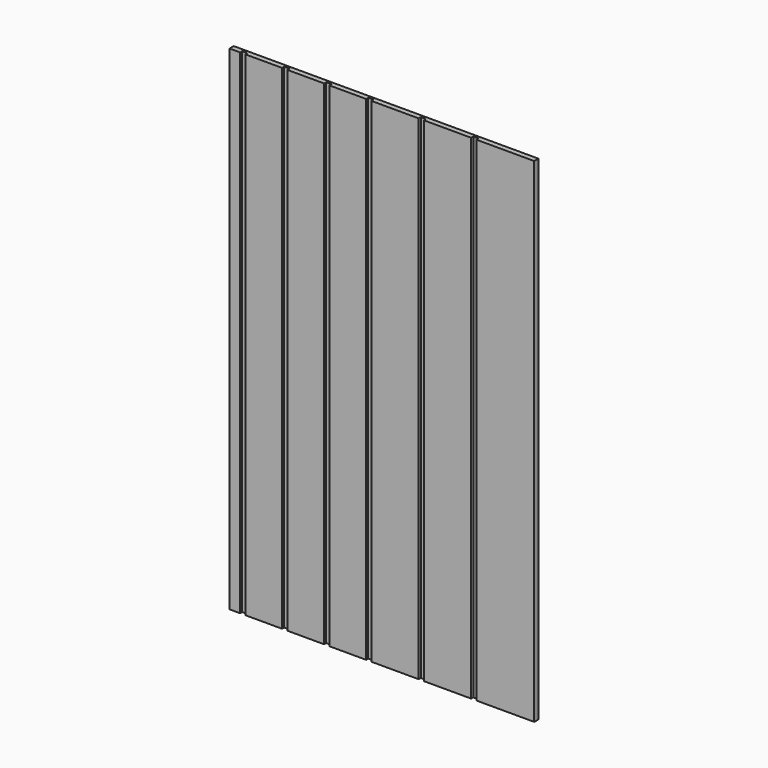
from build123d import *

# Parameters (mm, degrees)
F0_W     = 184.15
F0_H     = 298.45
F1_DEPTH = 3.175
F2_W     = 3.175
F2_H     = 298.45
F3_DEPTH = 1.5875
F4_ANGLE = 90


with BuildPart() as f1:
    # F0 (on Top) → F1 (new body)
    with BuildSketch(Plane.XY):
        with Locations((92.075, 149.225)):
            Rectangle(F0_W, F0_H)
    extrude(amount=F1_DEPTH)

    # F2 (on face) → F3 (cut)
    with BuildSketch(Plane.XY.offset(3.175)):
        with Locations((7.9375, 149.225)):
            Rectangle(F2_W, F2_H)
        with Locations((33.3375, 149.225)):
            Rectangle(F2_W, F2_H)
        with Locations((58.7375, 149.225)):
            Rectangle(F2_W, F2_H)
        with Locations((84.1375, 149.225)):
            Rectangle(F2_W, F2_H)
        with Locations((115.8875, 149.225)):
            Rectangle(F2_W, F2_H)
        with Locations((147.6375, 149.225)):
            Rectangle(F2_W, F2_H)
    extrude(amount=-F3_DEPTH, mode=Mode.SUBTRACT)


with BuildPart() as f1_1:
    # F4: moved
    add(f1.part.rotate(Axis((92.075, 0, 0), (1, 0, 0)), F4_ANGLE))


solid = f1_1.part
